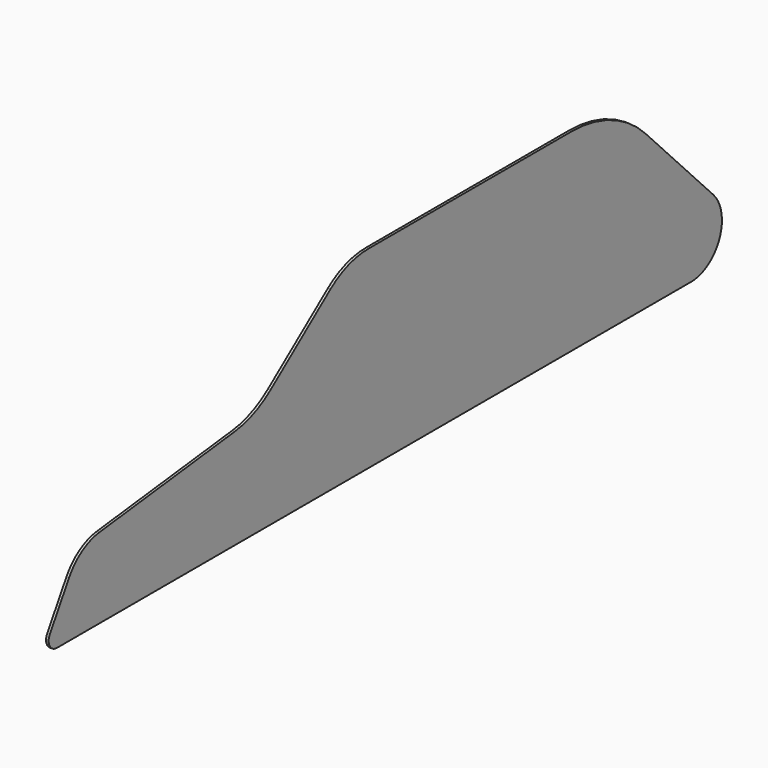
from build123d import *

# Parameters (mm, degrees)
F2_DEPTH = 25.4


with BuildPart() as f2:
    # F1 (on Right) → F2 (new body)
    with BuildSketch(Plane.YZ):
        with BuildLine():
            ThreePointArc((92.323661, 153.872769), (91.032632, 51.5418), (179.444943, 0))
            Line((179.444943, 0), (7996.090989, 0))
            ThreePointArc((7996.090989, 0), (8346.583224, 231.613944), (8270.939559, 644.854627))
            Line((8270.939559, 644.854627), (7436.065195, 1514.515422))
            ThreePointArc((7436.065195, 1514.515422), (7017.856816, 1803.307448), (6519.903297, 1905))
            Line((6519.903297, 1905), (4020.648106, 1905))
            ThreePointArc((4020.648106, 1905), (3773.35135, 1863.755378), (3552.825358, 1744.48639))
            Line((3552.825358, 1744.48639), (2811.897635, 1168.209272))
            ThreePointArc((2811.897635, 1168.209272), (2603.331997, 1047.387275), (2369.976299, 987.032506))
            Line((2369.976299, 987.032506), (705.052527, 791.159121))
            ThreePointArc((705.052527, 791.159121), (488.675988, 713.295295), (328.801475, 548.002458))
            Line((328.801475, 548.002458), (92.323661, 153.872769))
        make_face()
    extrude(amount=F2_DEPTH)


solid = f2.part
